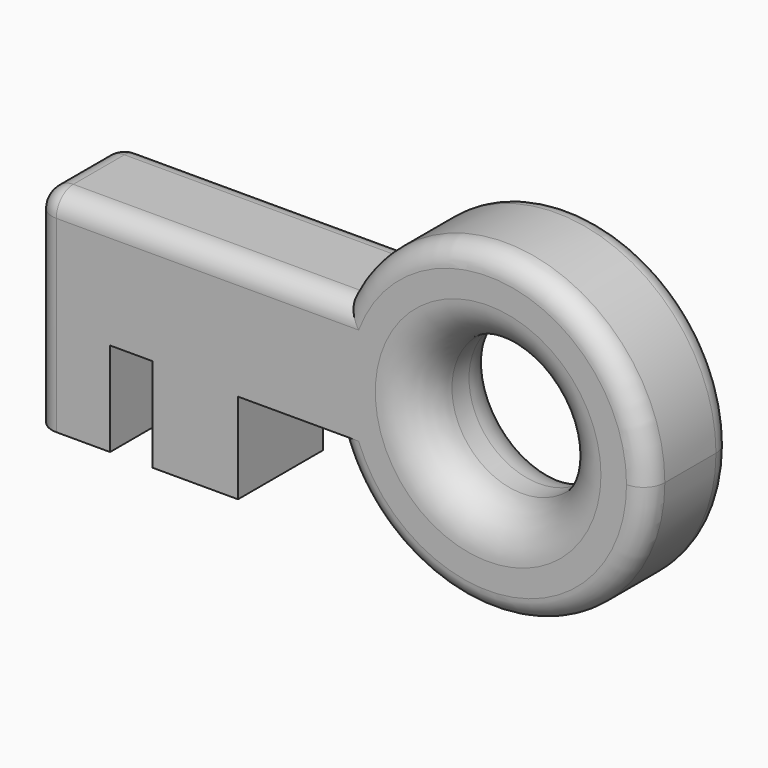
from build123d import *

# Parameters (mm, degrees)
F0_R     = 3.299151
F1_DEPTH = 5
F2_R     = 1
F3_R     = 2
F4_R     = 2


with BuildPart() as f1:
    # F0 (on Front) → F1 (new body)
    with BuildSketch(Plane.XZ):
        with BuildLine():
            ThreePointArc((-10.135779, 4.245207), (-10.476368, 7.082065), (-9.731289, 9.840438))
            Line((-9.731289, 9.840438), (-24.275417, 9.840438))
            Line((-24.275417, 9.840438), (-24.275417, 0))
            Line((-24.275417, 0), (-20.750272, 0))
            Line((-20.750272, 0), (-20.750272, 4.406432))
            Line((-20.750272, 4.406432), (-18.750272, 4.406432))
            Line((-18.750272, 4.406432), (-18.750272, 0))
            Line((-18.750272, 0), (-14.741508, 0))
            Line((-14.741508, 0), (-14.741508, 4.245207))
            Line((-14.741508, 4.245207), (-10.135779, 4.245207))
        make_face()
        with BuildLine():
            ThreePointArc((-10.135779, 4.245207), (-1.833816, -0.868138), (4.50411, 6.541287))
            ThreePointArc((4.50411, 6.541287), (-1.302593, 13.847637), (-9.731289, 9.840438))
            ThreePointArc((-9.731289, 9.840438), (-10.476368, 7.082065), (-10.135779, 4.245207))
        make_face()
        with Locations((-2.99589, 6.541287)):
            Circle(F0_R, mode=Mode.SUBTRACT)
    extrude(amount=F1_DEPTH)

    # F2
    f2_edges = [f1.edges().sort_by_distance(p)[0] for p in [
        (-17.003353, -5, 9.840438),
        (-17.003353, 0, 9.840438),
        (-24.275417, 0, 4.920219),
        (-24.275417, -2.5, 9.840438),
        (-24.275417, -5, 4.920219),
        (-1.833816, -5, -0.868138),
        (-1.302593, -5, 13.847637),
        (-1.833816, 0, -0.868138),
        (-1.302593, 0, 13.847637),
    ]]
    fillet(f2_edges, radius=F2_R)

    # F3
    f3_edges = [f1.edges().sort_by_distance(p)[0] for p in [
        (-6.295041, 0, 6.541287),
    ]]
    fillet(f3_edges, radius=F3_R)

    # F4
    f4_edges = [f1.edges().sort_by_distance(p)[0] for p in [
        (-6.295041, -5, 6.541287),
    ]]
    fillet(f4_edges, radius=F4_R)


solid = f1.part
